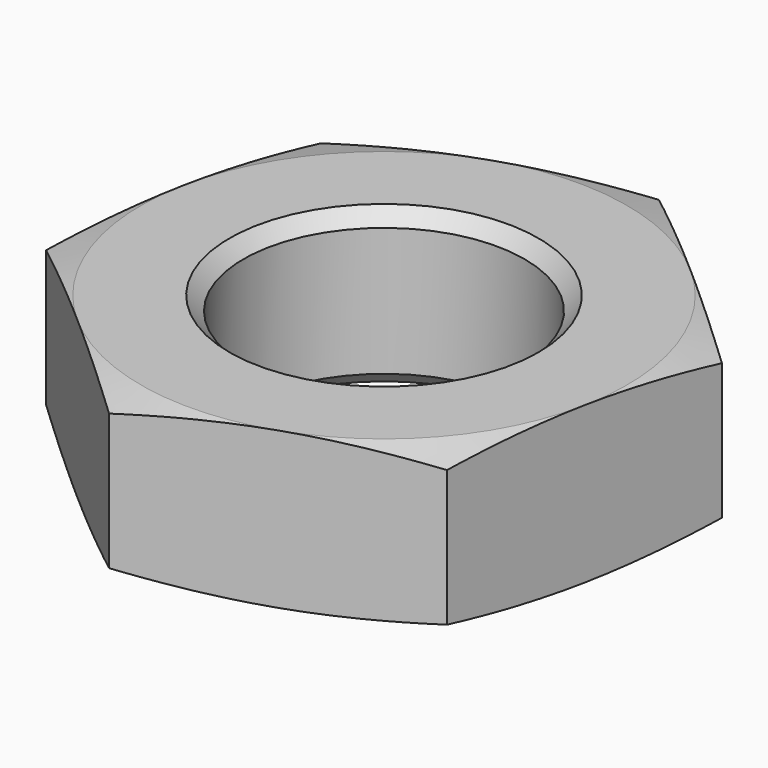
from build123d import *

# Parameters (mm, degrees)
F0_R     = 20.25
F1_DEPTH = 22.5
F6_SIZE  = 2


with BuildPart() as f1:
    # F0 (on Top) → F1 (new body)
    with BuildSketch(Plane.XY):
        Polygon((30.385918036, -26.6463753341), (38.2693969761, 12.9917892694), (7.8834789401, 39.6381646035), (-30.385918036, 26.6463753341), (-38.2693969761, -12.9917892694), (-7.8834789401, -39.6381646035), align=None)
        Circle(F0_R, mode=Mode.SUBTRACT)
    extrude(amount=F1_DEPTH)

    # F4 (on 3pt) → F5 (revolve, cut)
    with BuildSketch(Plane(origin=(0, 0, 0), x_dir=(0.9469219991, 0.3214634157, 0), z_dir=(0.3214634157, -0.9469219991, 0))):
        Polygon((35, 22.707875818), (35, 22.5), (44.6592582629, 19.911809549), (44.6592582629, 22.707875818), align=None)
        Polygon((44.6592582629, 2.588190451), (35, 0), (35, -0.207875818), (44.6592582629, -0.207875818), align=None)
    revolve(axis=Axis((0, 0, 0), (0, 0, -1)), mode=Mode.SUBTRACT)

    # F6
    f6_edges = [f1.edges().sort_by_distance(p)[0] for p in [
        (-20.25, 0, 22.5),
        (-20.25, 0, 0),
    ]]
    chamfer(f6_edges, length=F6_SIZE)


solid = f1.part
